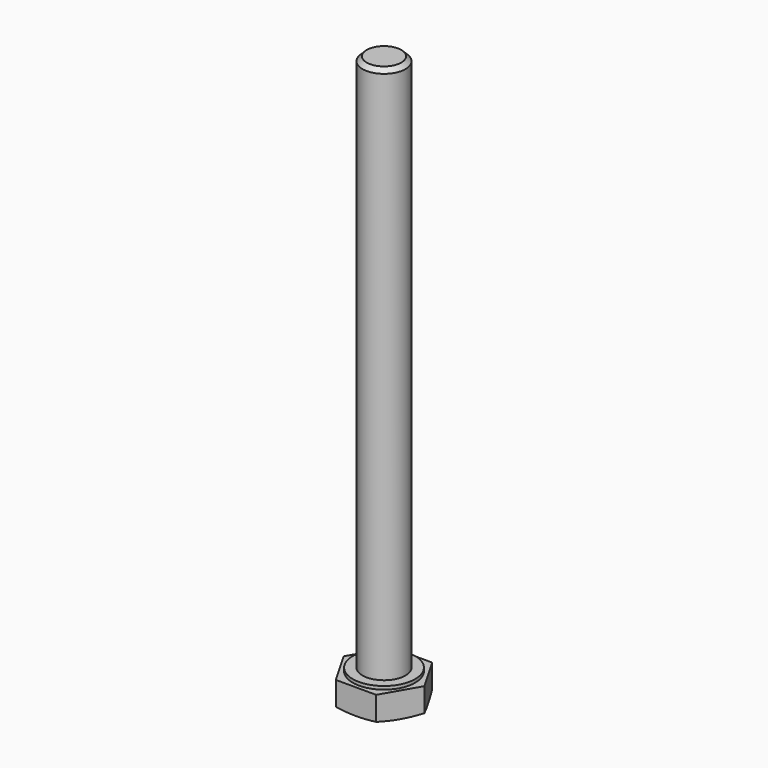
from build123d import *

# Parameters (mm, degrees)
F1_DEPTH = 4.7
F4_R     = 5.8
F5_DEPTH = 0.6
F6_R     = 4
F7_DEPTH = 100
F8_SIZE  = 0.8


with BuildPart() as f1:
    # F0 (on Top) → F1 (new body)
    with BuildSketch(Plane.XY):
        Polygon((-3.7527767497, -6.5), (3.7527767497, -6.5), (7.5055534995, 0), (3.7527767497, 6.5), (-3.7527767497, 6.5), (-7.5055534995, 0), align=None)
    extrude(amount=F1_DEPTH)

    # F2 (on Front) → F3 (revolve, cut)
    with BuildSketch(Plane.XZ):
        Polygon((-7.5055534995, 0), (-6.5, 0), (-7.5055534995, 0.2694372481), align=None)
    revolve(axis=Axis((0, 0, 10.3672710247), (0, 0, 1)), mode=Mode.SUBTRACT)

    # F4 (on face) → F5 (join)
    with BuildSketch(Plane.XY.offset(4.7)):
        Circle(F4_R)
    extrude(amount=F5_DEPTH)

    # F6 (on face) → F7 (join)
    with BuildSketch(Plane.XY.offset(5.3)):
        Circle(F6_R)
    extrude(amount=F7_DEPTH)

    # F8
    f8_edges = [f1.edges().sort_by_distance(p)[0] for p in [
        (-4, 0, 105.3),
    ]]
    chamfer(f8_edges, length=F8_SIZE)


solid = f1.part
